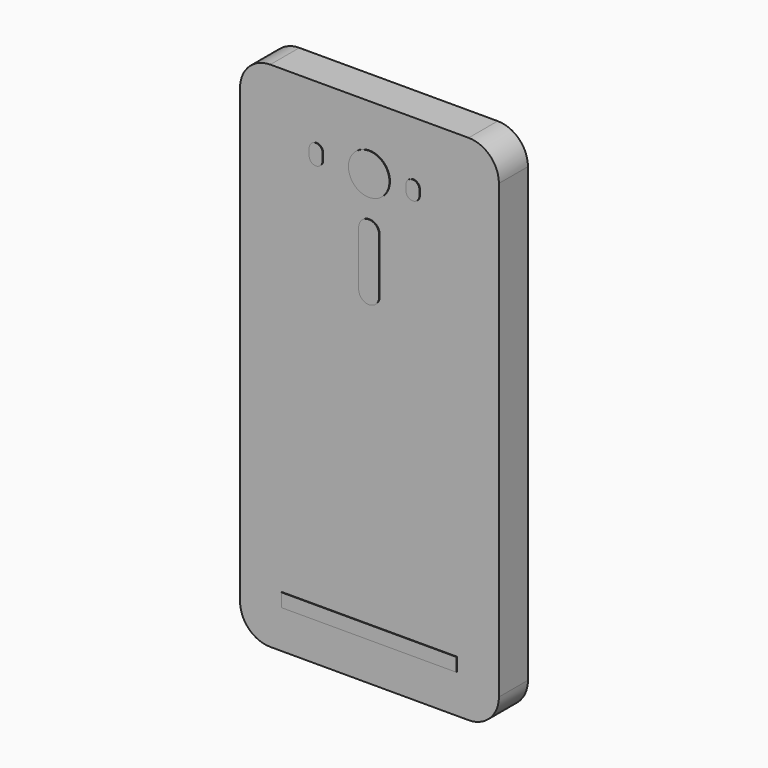
from build123d import *

# Parameters (mm, degrees)
F0_W     = 52.1
F0_H     = 4
F0_R     = 6.1
F1_DEPTH = 10.8
F2_DEPTH = 11


with BuildPart() as f1:
    # F0 (on Front) → F1 (new body)
    with BuildSketch(Plane.XZ):
        with BuildLine():
            Line((-29.5, -76.25), (29.5, -76.25))
            ThreePointArc((29.5, -76.25), (35.863961, -73.613961), (38.5, -67.25))
            Line((38.5, -67.25), (38.5, 67.25))
            ThreePointArc((38.5, 67.25), (35.863961, 73.613961), (29.5, 76.25))
            Line((29.5, 76.25), (-29.5, 76.25))
            ThreePointArc((-29.5, 76.25), (-35.863961, 73.613961), (-38.5, 67.25))
            Line((-38.5, 67.25), (-38.5, -67.25))
            ThreePointArc((-38.5, -67.25), (-35.863961, -73.613961), (-29.5, -76.25))
        make_face()
        with Locations((0, -62.75)):
            Rectangle(F0_W, F0_H, mode=Mode.SUBTRACT)
        with BuildLine():
            Line((-13.786121, 58.25), (-13.786121, 56.25))
            ThreePointArc((-13.786121, 56.25), (-14.371908, 54.835786), (-15.786121, 54.25))
            ThreePointArc((-15.786121, 54.25), (-17.200335, 54.835786), (-17.786121, 56.25))
            Line((-17.786121, 56.25), (-17.786121, 58.25))
            ThreePointArc((-17.786121, 58.25), (-17.200335, 59.664214), (-15.786121, 60.25))
            ThreePointArc((-15.786121, 60.25), (-14.371908, 59.664214), (-13.786121, 58.25))
        make_face(mode=Mode.SUBTRACT)
        with BuildLine():
            Line((3.05, 42.301566), (3.05, 26.101566))
            ThreePointArc((3.05, 26.101566), (2.156676, 23.94489), (0, 23.051566))
            ThreePointArc((0, 23.051566), (-2.156676, 23.94489), (-3.05, 26.101566))
            Line((-3.05, 26.101566), (-3.05, 42.301566))
            ThreePointArc((-3.05, 42.301566), (-2.156676, 44.458242), (0, 45.351566))
            ThreePointArc((0, 45.351566), (2.156676, 44.458242), (3.05, 42.301566))
        make_face(mode=Mode.SUBTRACT)
        with Locations((0, 57.25)):
            Circle(F0_R, mode=Mode.SUBTRACT)
        with BuildLine():
            Line((15.011477, 58.05), (15.011477, 56.45))
            ThreePointArc((15.011477, 56.45), (14.425691, 55.035786), (13.011477, 54.45))
            ThreePointArc((13.011477, 54.45), (11.597264, 55.035786), (11.011477, 56.45))
            Line((11.011477, 56.45), (11.011477, 58.05))
            ThreePointArc((11.011477, 58.05), (11.597264, 59.464214), (13.011477, 60.05))
            ThreePointArc((13.011477, 60.05), (14.425691, 59.464214), (15.011477, 58.05))
        make_face(mode=Mode.SUBTRACT)
    extrude(amount=F1_DEPTH)

    # F0 (on Front) → F2 (join)
    with BuildSketch(Plane.XZ):
        with Locations((0, 57.25)):
            Circle(F0_R)
        with BuildLine():
            ThreePointArc((-15.786121, 54.25), (-14.371908, 54.835786), (-13.786121, 56.25))
            Line((-13.786121, 56.25), (-13.786121, 58.25))
            ThreePointArc((-13.786121, 58.25), (-14.371908, 59.664214), (-15.786121, 60.25))
            ThreePointArc((-15.786121, 60.25), (-17.200335, 59.664214), (-17.786121, 58.25))
            Line((-17.786121, 58.25), (-17.786121, 56.25))
            ThreePointArc((-17.786121, 56.25), (-17.200335, 54.835786), (-15.786121, 54.25))
        make_face()
        with BuildLine():
            ThreePointArc((13.011477, 54.45), (14.425691, 55.035786), (15.011477, 56.45))
            Line((15.011477, 56.45), (15.011477, 58.05))
            ThreePointArc((15.011477, 58.05), (14.425691, 59.464214), (13.011477, 60.05))
            ThreePointArc((13.011477, 60.05), (11.597264, 59.464214), (11.011477, 58.05))
            Line((11.011477, 58.05), (11.011477, 56.45))
            ThreePointArc((11.011477, 56.45), (11.597264, 55.035786), (13.011477, 54.45))
        make_face()
        with BuildLine():
            ThreePointArc((0, 23.051566), (2.156676, 23.94489), (3.05, 26.101566))
            Line((3.05, 26.101566), (3.05, 42.301566))
            ThreePointArc((3.05, 42.301566), (2.156676, 44.458242), (0, 45.351566))
            ThreePointArc((0, 45.351566), (-2.156676, 44.458242), (-3.05, 42.301566))
            Line((-3.05, 42.301566), (-3.05, 26.101566))
            ThreePointArc((-3.05, 26.101566), (-2.156676, 23.94489), (0, 23.051566))
        make_face()
        with Locations((0, -62.75)):
            Rectangle(F0_W, F0_H)
    extrude(amount=F2_DEPTH)


solid = f1.part
